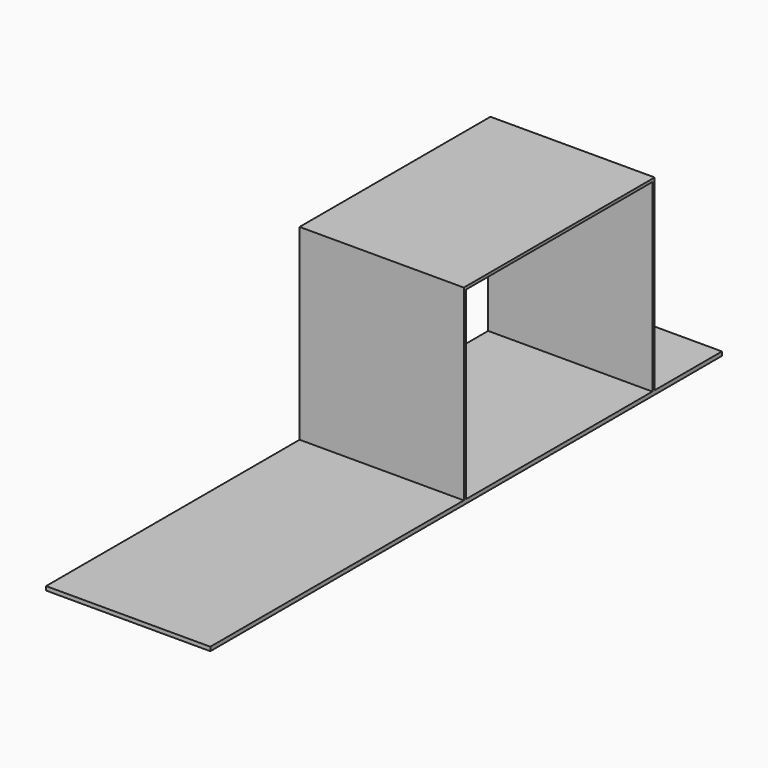
from build123d import *

# Parameters (mm, degrees)
F1_DEPTH = 1030
F2_W     = 1030
F2_H     = 4010.616026
F3_DEPTH = 25


with BuildPart() as f1:
    # F0 (on Right) → F1 (new body)
    with BuildSketch(Plane.YZ):
        Polygon((748, -587.5), (748, 587.5), (-748, 587.5), (-748, -587.5), (-730, -587.5), (-730, 569.5), (730, 569.5), (730, -587.5), align=None)
    extrude(amount=F1_DEPTH)


with BuildPart() as f3:
    # F2 (on face) → F3 (new body)
    with BuildSketch(Plane(origin=(0, 0, -587.5), x_dir=(1, 0, 0), z_dir=(0, 0, -1))):
        with Locations((515, 730)):
            Rectangle(F2_W, F2_H)
    extrude(amount=F3_DEPTH)


solid = Compound([f1.part, f3.part])
